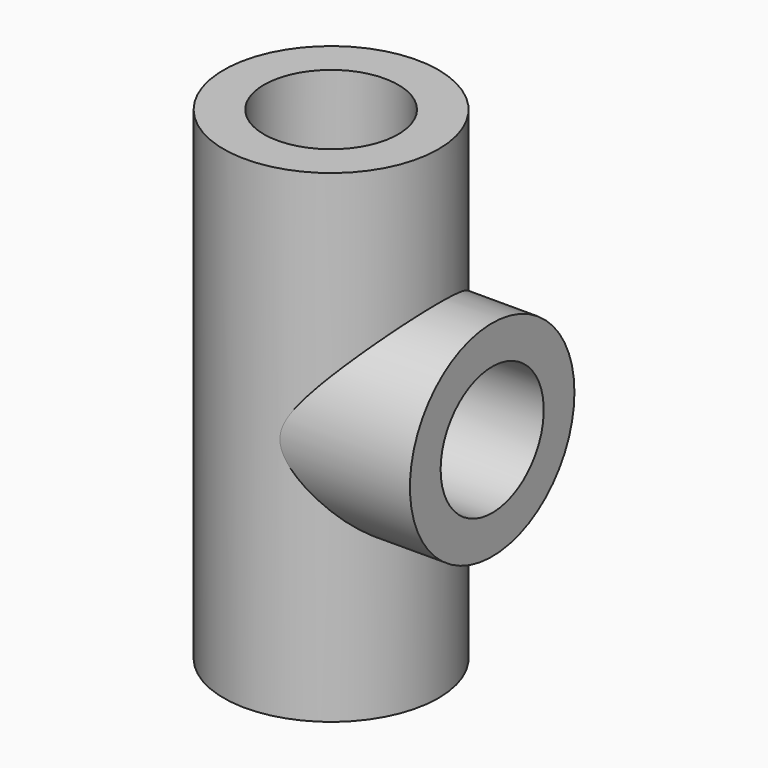
from build123d import *

# Parameters (mm, degrees)
F0_R     = 5.08
F1_DEPTH = 22.86
F3_D     = 6.35
F4_R     = 4.863365
F5_DEPTH = 7.62
F7_D     = 6.096


with BuildPart() as f1:
    # F0 (on Top) → F1 (new body)
    with BuildSketch(Plane.XY):
        Circle(F0_R)
    extrude(amount=F1_DEPTH)

    # F3 (through all)
    with Locations(Plane(origin=(0, 0, 0), x_dir=(1, 0, 0), z_dir=(0, 0, -1))):
        with Locations((0, 0)):
            Hole(F3_D / 2)

    # F4 (on Right) → F5 (join)
    with BuildSketch(Plane.YZ):
        with Locations((0, 11.58422)):
            Circle(F4_R)
    extrude(amount=F5_DEPTH)

    # F7 (through all)
    with Locations(Plane.YZ.offset(7.62)):
        with Locations((0, 11.58422)):
            Hole(F7_D / 2)


solid = f1.part
